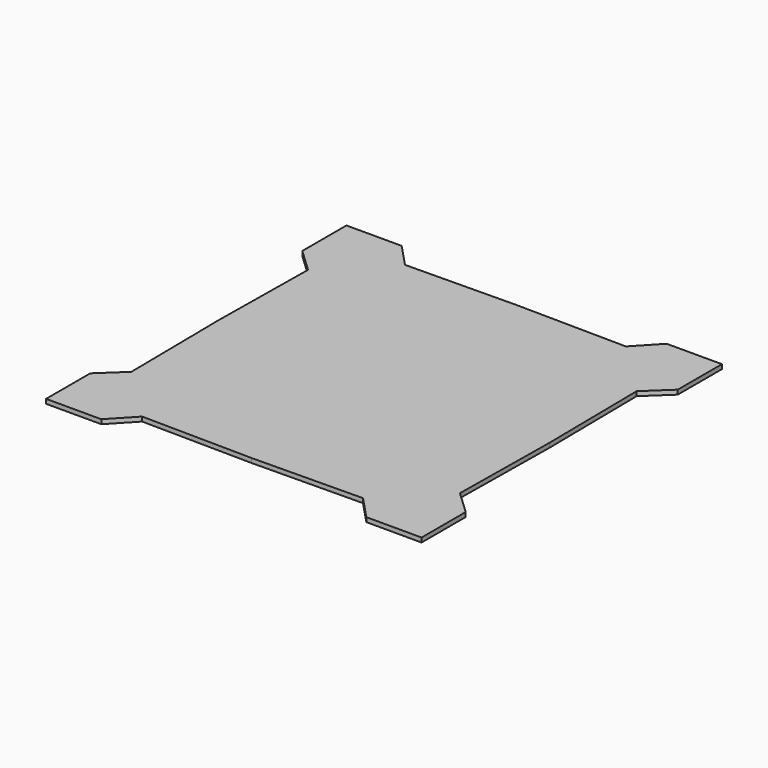
from build123d import *

# Parameters (mm, degrees)
F0_W     = 215.9
F0_H     = 215.9
F1_DEPTH = 2.54
F3_DEPTH = 12.7
F6_COUNT = 4
F6_ANGLE = 270
F7_DEPTH = 25.401


with BuildPart() as f1:
    # F0 (on Top) → F1 (new body)
    with BuildSketch(Plane.XY):
        Rectangle(F0_W, F0_H)
    extrude(amount=-F1_DEPTH)


with BuildPart() as f3:
    # F2 (on face) → F3 (new body, symmetric)
    with BuildSketch(Plane.XY):
        Polygon((-76.2, -107.95), (0, -107.95), (0, -95.25), (-63.4950530427, -94.4573846459), align=None)
    extrude(amount=F3_DEPTH, both=True)


with BuildPart() as f4_1:
    # F4: instance of F3
    add(f3.part.mirror(Plane.YZ))


with BuildPart() as f6_1:
    # F6: instance of F3
    add(f3.part.rotate(Axis((0, 0, 47.5433133543), (0, 0, 1)), 1 * F6_ANGLE / (F6_COUNT - 1)))


with BuildPart() as f6_2:
    # F6: instance of F3
    add(f3.part.rotate(Axis((0, 0, 47.5433133543), (0, 0, 1)), 2 * F6_ANGLE / (F6_COUNT - 1)))


with BuildPart() as f6_3:
    # F6: instance of F3
    add(f3.part.rotate(Axis((0, 0, 47.5433133543), (0, 0, 1)), 3 * F6_ANGLE / (F6_COUNT - 1)))


with BuildPart() as f6_4:
    # F6: instance of F4_1
    add(f4_1.part.rotate(Axis((0, 0, 47.5433133543), (0, 0, 1)), 1 * F6_ANGLE / (F6_COUNT - 1)))


with BuildPart() as f6_5:
    # F6: instance of F4_1
    add(f4_1.part.rotate(Axis((0, 0, 47.5433133543), (0, 0, 1)), 2 * F6_ANGLE / (F6_COUNT - 1)))


with BuildPart() as f6_6:
    # F6: instance of F4_1
    add(f4_1.part.rotate(Axis((0, 0, 47.5433133543), (0, 0, 1)), 3 * F6_ANGLE / (F6_COUNT - 1)))


with BuildPart() as f7_tool:
    # F6_face (on face) + F4_face (on face) + F3_face (on face) → F7 (new body, through all)
    with BuildSketch(Plane(origin=(-35.4001438313, 101.5916492403, 12.7), x_dir=(1, 0, 0), z_dir=(0, 0, 1))):
        Polygon((-40.7998561687, 6.3583507597), (-28.0949092115, -7.1342645945), (35.4001438313, -6.3416492403), (35.4001438313, 6.3583507597), align=None)
        Polygon((98.895196874, -7.1342645945), (111.6001438313, 6.3583507597), (35.4001438313, 6.3583507597), (35.4001438313, -6.3416492403), align=None)
        Polygon((143.3501438313, -25.3916492403), (129.8575284771, -38.0965961976), (130.6501438313, -101.5916492403), (143.3501438313, -101.5916492403), align=None)
        Polygon((129.8575284771, -165.0867022831), (143.3501438313, -177.7916492403), (143.3501438313, -101.5916492403), (130.6501438313, -101.5916492403), align=None)
        Polygon((-72.5498561687, -177.7916492403), (-59.0572408146, -165.0867022831), (-59.8498561687, -101.5916492403), (-72.5498561687, -101.5916492403), align=None)
        Polygon((-59.0572408146, -38.0965961976), (-72.5498561687, -25.3916492403), (-72.5498561687, -101.5916492403), (-59.8498561687, -101.5916492403), align=None)
    with BuildSketch(Plane(origin=(35.4001438313, -101.5916492403, 12.7), x_dir=(1, 0, 0), z_dir=(0, 0, 1))):
        Polygon((40.7998561687, -6.3583507597), (28.0949092115, 7.1342645945), (-35.4001438313, 6.3416492403), (-35.4001438313, -6.3583507597), align=None)
    with BuildSketch(Plane(origin=(-35.4001438313, -101.5916492403, 12.7), x_dir=(1, 0, 0), z_dir=(0, 0, 1))):
        Polygon((-28.0949092115, 7.1342645945), (-40.7998561687, -6.3583507597), (35.4001438313, -6.3583507597), (35.4001438313, 6.3416492403), align=None)
    extrude(amount=-F7_DEPTH)


with BuildPart() as f1_1:
    add(f1.part)

    # F7: cut by f7_tool
    add(f7_tool.part, mode=Mode.SUBTRACT)


with BuildPart() as f3_1:
    add(f3.part)

    # F7: cut by f7_tool
    add(f7_tool.part, mode=Mode.SUBTRACT)


with BuildPart() as f4_1_1:
    add(f4_1.part)

    # F7: cut by f7_tool
    add(f7_tool.part, mode=Mode.SUBTRACT)


with BuildPart() as f6_1_1:
    add(f6_1.part)

    # F7: cut by f7_tool
    add(f7_tool.part, mode=Mode.SUBTRACT)


with BuildPart() as f6_2_1:
    add(f6_2.part)

    # F7: cut by f7_tool
    add(f7_tool.part, mode=Mode.SUBTRACT)


with BuildPart() as f6_3_1:
    add(f6_3.part)

    # F7: cut by f7_tool
    add(f7_tool.part, mode=Mode.SUBTRACT)


with BuildPart() as f6_4_1:
    add(f6_4.part)

    # F7: cut by f7_tool
    add(f7_tool.part, mode=Mode.SUBTRACT)


with BuildPart() as f6_5_1:
    add(f6_5.part)

    # F7: cut by f7_tool
    add(f7_tool.part, mode=Mode.SUBTRACT)


with BuildPart() as f6_6_1:
    add(f6_6.part)

    # F7: cut by f7_tool
    add(f7_tool.part, mode=Mode.SUBTRACT)


solid = f1_1.part
